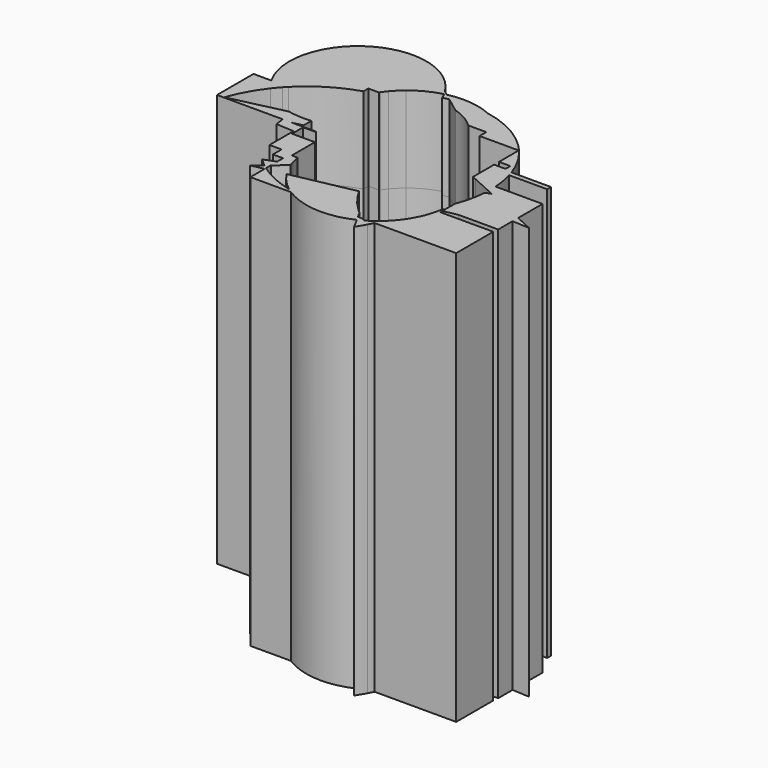
from build123d import *

# Parameters (mm, degrees)
F0_W     = 3.6750007421
F0_H     = 5.775000318
F1_DEPTH = 25
F2_DEPTH = 95


with BuildPart() as f1:
    # F0 (on Top) → F1 (new body)
    with BuildSketch(Plane.XY):
        with BuildLine():
            ThreePointArc((-30.071158285, 31.3468328765), (-29.5287994286, 32.1021124252), (-28.9529769116, 32.832200608))
            ThreePointArc((-28.9529769116, 32.832200608), (-27.5838447335, 34.3329571957), (-26.0738259303, 35.6918672262))
            ThreePointArc((-26.0738259303, 35.6918672262), (-22.3517813672, 38.1084047853), (-18.1992395641, 39.6735456987))
            ThreePointArc((-18.1992395641, 39.6735456987), (-18.5245426558, 40.2636506015), (-18.8696369969, 40.8424042568))
            Line((-18.8696369969, 40.8424042568), (-30.3454089172, 49.5047612757))
            ThreePointArc((-30.3454089172, 49.5047612757), (-42.6251697152, 49.0517697615), (-52.2979562138, 41.4731862579))
            Line((-52.2979562138, 41.4731862579), (-30.071158285, 31.3468328765))
        make_face()
        with BuildLine():
            ThreePointArc((-30.2623343931, 31.0625005513), (-30.1673362911, 31.2050633791), (-30.071158285, 31.3468328765))
            Line((-30.071158285, 31.3468328765), (-52.2979562138, 41.4731862579))
            ThreePointArc((-52.2979562138, 41.4731862579), (-55.6770457664, 31.0321636096), (-53.0078909177, 20.3875023872))
            Line((-53.0078909177, 20.3875023872), (-47.9924982416, 20.3875023872))
            ThreePointArc((-47.9924982416, 20.3875023872), (-41.2137652968, 25.746925913), (-33.3374999464, 29.302074995))
            Line((-33.3374999464, 29.302074995), (-33.3374999464, 31.0625005513))
            Line((-33.3374999464, 31.0625005513), (-32.5901060503, 31.0625005513))
            Line((-32.5901060503, 31.0625005513), (-30.2623343931, 31.0625005513))
        make_face()
        with BuildLine():
            ThreePointArc((-17.5334161659, 39.8337730314), (-17.8669923903, 39.7564207947), (-18.1992395641, 39.6735456987))
            ThreePointArc((-18.1992395641, 39.6735456987), (-17.7864134594, 38.8479792016), (-17.4123121516, 38.0041583406))
            ThreePointArc((-17.4123121516, 38.0041583406), (-16.5358471383, 38.2228526915), (-15.6530520032, 38.4144013485))
            Line((-15.6530520032, 38.4144013485), (-17.5334161659, 39.8337730314))
        make_face()
        with BuildLine():
            ThreePointArc((-18.8696369969, 40.8424042568), (-18.5245426558, 40.2636506015), (-18.1992395641, 39.6735456987))
            ThreePointArc((-18.1992395641, 39.6735456987), (-17.8669923903, 39.7564207947), (-17.5334161659, 39.8337730314))
            Line((-17.5334161659, 39.8337730314), (-18.8696369969, 40.8424042568))
        make_face()
        with BuildLine():
            Line((-30.3454089172, 49.5047612757), (-18.8696369969, 40.8424042568))
            ThreePointArc((-18.8696369969, 40.8424042568), (-23.7978797705, 46.2461869691), (-30.3454089172, 49.5047612757))
        make_face()
        with BuildLine():
            ThreePointArc((-4.5252413586, 38.4924742732), (-10.9203031459, 40.2204751689), (-17.5334161659, 39.8337730314))
            Line((-17.5334161659, 39.8337730314), (-15.6530520032, 38.4144013485))
            ThreePointArc((-15.6530520032, 38.4144013485), (-10.0928904266, 38.9870375577), (-4.5252413586, 38.4924742732))
        make_face()
        with BuildLine():
            ThreePointArc((-50.7512739681, 17.2427478517), (-51.9562194202, 18.7601318601), (-53.0078909177, 20.3875023872))
            Line((-53.0078909177, 20.3875023872), (-58.1875033677, 20.3875023872))
            Line((-58.1875033677, 20.3875023872), (-58.1875033677, 7.1179531098))
            Line((-58.1875033677, 7.1179531098), (-39.0475585355, 7.1179531098))
            ThreePointArc((-39.0475585355, 7.1179531098), (-39.1523218815, 8.9309058901), (-39.1444782721, 10.7468661375))
            ThreePointArc((-39.1444782721, 10.7468661375), (-39.7179407646, 10.853680681), (-40.2880263329, 10.9772566565))
            Line((-40.2880263329, 10.9772566565), (-56.190588675, 7.2792226343))
            ThreePointArc((-56.190588675, 7.2792226343), (-53.8733675413, 12.4806843155), (-50.7512739681, 17.2427478517))
        make_face()
        with BuildLine():
            Line((-47.9924982416, 20.3875023872), (-53.0078909177, 20.3875023872))
            ThreePointArc((-53.0078909177, 20.3875023872), (-51.9562194202, 18.7601318601), (-50.7512739681, 17.2427478517))
            ThreePointArc((-50.7512739681, 17.2427478517), (-49.8561303122, 18.3473701322), (-48.9173030845, 19.4151135394))
            ThreePointArc((-48.9173030845, 19.4151135394), (-48.4595140066, 19.9056955522), (-47.9924982416, 20.3875023872))
        make_face()
        with BuildLine():
            ThreePointArc((-4.5252413586, 38.4924742732), (-10.0928904266, 38.9870375577), (-15.6530520032, 38.4144013485))
            Line((-15.6530520032, 38.4144013485), (-11.28218033, 35.1150981574))
            ThreePointArc((-11.28218033, 35.1150981574), (-7.5263289945, 33.5140484021), (-4.2614105102, 31.0625005513))
            Line((-4.2614105102, 31.0625005513), (0.962500344, 31.0625005513))
            Line((0.962500344, 31.0625005513), (0.962500344, 28.6125019193))
            Line((0.962500344, 28.6125019193), (5.5751292518, 28.6125019193))
            ThreePointArc((5.5751292518, 28.6125019193), (1.3966037445, 34.4435925133), (-4.5252413586, 38.4924742732))
        make_face()
        with BuildLine():
            ThreePointArc((11.1320103007, 30.0894704216), (3.9563452717, 35.507629124), (-4.5252413586, 38.4924742732))
            ThreePointArc((-4.5252413586, 38.4924742732), (1.3966037445, 34.4435925133), (5.5751292518, 28.6125019193))
            Line((5.5751292518, 28.6125019193), (7.9545516891, 28.6125019193))
            ThreePointArc((7.9545516891, 28.6125019193), (9.5203776651, 29.4002589765), (11.1320103007, 30.0894704216))
        make_face()
        with BuildLine():
            ThreePointArc((17.8205888744, 19.1625021398), (15.0813684089, 24.9963589449), (11.1320103007, 30.0894704216))
            ThreePointArc((11.1320103007, 30.0894704216), (9.5203776651, 29.4002589765), (7.9545516891, 28.6125019193))
            Line((7.9545516891, 28.6125019193), (12.3566451147, 28.6125019193))
            Line((12.3566451147, 28.6125019193), (12.3566451147, 21.4375015348))
            Line((12.3566451147, 21.4375015348), (14.4104711624, 21.4375015348))
            Line((14.4104711624, 21.4375015348), (15.6625024974, 21.4375015348))
            Line((15.6625024974, 21.4375015348), (15.6625024974, 19.687499851))
            Line((15.6625024974, 19.687499851), (12.3566451147, 19.687499851))
            Line((12.3566451147, 19.687499851), (12.3566451147, 19.1625021398))
            Line((12.3566451147, 19.1625021398), (17.8205888744, 19.1625021398))
        make_face()
        with BuildLine():
            ThreePointArc((18.259226552, 17.7625007927), (18.0486790968, 18.4652496489), (17.8205888744, 19.1625021398))
            Line((17.8205888744, 19.1625021398), (12.3566451147, 19.1625021398))
            Line((12.3566451147, 19.1625021398), (12.3566451147, 17.7625007927))
            Line((12.3566451147, 17.7625007927), (18.259226552, 17.7625007927))
        make_face()
        with BuildLine():
            Line((29.3124988675, 19.1625021398), (17.8205888744, 19.1625021398))
            ThreePointArc((17.8205888744, 19.1625021398), (18.0486790968, 18.4652496489), (18.259226552, 17.7625007927))
            Line((18.259226552, 17.7625007927), (29.3124988675, 17.7625007927))
            Line((29.3124988675, 17.7625007927), (29.3124988675, 19.1625021398))
        make_face()
        with BuildLine():
            ThreePointArc((-39.1444782721, 10.7468661375), (-39.1523218815, 8.9309058901), (-39.0475585355, 7.1179531098))
            Line((-39.0475585355, 7.1179531098), (-36.4499563066, 7.1179531098))
            Line((-36.4499563066, 7.1179531098), (-33.5125029087, 7.7338707992))
            Line((-33.5125029087, 7.7338707992), (-33.5125029087, 10.592149025))
            ThreePointArc((-33.5125029087, 10.592149025), (-36.3339935224, 10.4691911668), (-39.1444782721, 10.7468661375))
        make_face()
        with BuildLine():
            Line((-36.4499563066, 7.1179531098), (-39.0475585355, 7.1179531098))
            ThreePointArc((-39.0475585355, 7.1179531098), (-39.0225733364, 6.8509988572), (-38.9951442785, 6.5842846281))
            Line((-38.9951442785, 6.5842846282), (-36.4499563066, 7.1179531098))
        make_face()
        with BuildLine():
            ThreePointArc((18.6227992253, 16.3610761814), (18.4496777039, 17.0640364068), (18.259226552, 17.7625007927))
            Line((18.259226552, 17.7625007927), (12.3566451147, 17.7625007927))
            Line((12.3566451147, 17.7625007927), (12.3566451147, 14.3127087279))
            Line((12.3566451147, 14.3127087279), (18.6227992253, 16.3610761814))
        make_face()
        with BuildLine():
            Line((-33.5125029087, 7.1179531098), (-36.4499563066, 7.1179531098))
            Line((-36.4499563066, 7.1179531098), (-38.9951442785, 6.5842846282))
            ThreePointArc((-38.9951442785, 6.5842846281), (-38.8545710122, 5.4758170049), (-38.6718010712, 4.3735210085))
            Line((-38.6718010712, 4.3735210085), (-33.5125029087, 4.1006240002))
            Line((-33.5125029087, 4.1006240002), (-33.5125029087, 7.1179531098))
        make_face()
        with BuildLine():
            ThreePointArc((19.3354057682, 11.4625003189), (19.0828253542, 13.926877041), (18.6227992253, 16.3610761814))
            Line((18.6227992253, 16.3610761814), (12.3566451147, 14.3127087279))
            Line((12.3566451147, 14.3127087279), (12.3566451147, 12.0170611391))
            Line((12.3566451147, 12.0170611391), (13.5738761183, 11.4625003189))
            Line((13.5738761183, 11.4625003189), (19.3354057682, 11.4625003189))
        make_face()
        with BuildLine():
            Line((-29.4110169453, 7.1179531098), (-33.5125029087, 7.1179531098))
            Line((-33.5125029087, 7.1179531098), (-33.5125029087, 4.1006240002))
            Line((-33.5125029087, 4.1006240002), (-32.9875014722, 4.0728544631))
            Line((-32.9875014722, 4.0728544631), (-32.9875014722, 6.9125001319))
            Line((-32.9875014722, 6.9125001319), (-29.2512270521, 6.9125001319))
            ThreePointArc((-29.2512270521, 6.9125001319), (-29.3314458256, 7.0149747663), (-29.4110169453, 7.1179531098))
        make_face()
        with BuildLine():
            Line((29.744037072, 11.4625003189), (19.3354057682, 11.4625003189))
            ThreePointArc((19.3354057682, 11.4625003189), (19.3846120558, 10.1416586618), (19.374148289, 8.8199421827))
            Line((19.374148289, 8.8199421827), (20.894426558, 8.1273154247))
            Line((20.894426558, 8.1273154247), (29.744037072, 11.4625003189))
        make_face()
        with BuildLine():
            ThreePointArc((19.374148289, 8.8199421827), (19.3846120558, 10.1416586618), (19.3354057682, 11.4625003189))
            Line((19.3354057682, 11.4625003189), (13.5738761183, 11.4625003189))
            Line((13.5738761183, 11.4625003189), (19.374148289, 8.8199421827))
        make_face()
        Polygon((-32.9875014722, 4.0728544631), (-33.5125029087, 4.1006240002), (-33.5125029087, -4.6375002712), (-30.0125014037, -4.6375002712), (-30.0125014037, 1.1375000468), (-26.3375006616, 1.1375000468), (-26.3375006616, 2.8874999844), (-32.9875014722, 2.8874999844), align=None)
        with BuildLine():
            Line((32.9875051975, 11.4625003189), (29.744037072, 11.4625003189))
            Line((29.744037072, 11.4625003189), (20.894426558, 8.1273154247))
            Line((20.894426558, 8.1273154247), (19.3061974538, 7.528753747))
            ThreePointArc((19.3061974538, 7.528753747), (19.3048975855, 7.5114452721), (19.3035874553, 7.4941375709))
            ThreePointArc((19.3035874553, 7.4941375709), (19.0530268322, 5.2981344686), (18.637502566, 3.1272936555))
            Line((18.637502566, 3.1272936555), (18.637502566, 2.8874999844))
            Line((18.637502566, 2.8874999844), (18.5810807252, 2.8874999844))
            ThreePointArc((18.5810807252, 2.8874999844), (18.387245814, 2.1243867951), (18.1729592459, 1.3667622317))
            Line((18.1729592459, 1.3667622317), (32.9875051975, 0.5831585044))
            Line((32.9875051975, 0.5831585044), (32.9875051975, 2.6178044207))
            Line((32.9875051975, 2.6178044207), (32.9875051975, 11.4625003189))
        make_face()
        with BuildLine():
            Line((-26.3375006616, -4.6375002712), (-30.0125014037, -4.6375002712))
            Line((-30.0125014037, -4.6375002712), (-30.0125014037, -7.7875005081))
            Line((-30.0125014037, -7.7875005081), (-27.0375013351, -7.7875005081))
            Line((-27.0375013351, -7.7875005081), (-27.0375013351, -6.212499924))
            Line((-27.0375013351, -6.212499924), (-24.4811902103, -6.212499924))
            ThreePointArc((-24.4811902103, -6.212499924), (-24.5495457822, -5.863055213), (-24.6119578033, -5.5125001818))
            Line((-24.6119578033, -5.5125001818), (-26.3375006616, -5.5125001818))
            Line((-26.3375006616, -5.5125001818), (-26.3375006616, -4.6375002712))
        make_face()
        with Locations((-28.1750010327, -1.7500001122)):
            Rectangle(F0_W, F0_H)
        Polygon((38.0400421285, 0.3159085471), (32.9875051975, 2.6178044207), (32.9875051975, 0.5831585044), align=None)
        with BuildLine():
            Line((32.9875051975, -4.6375002712), (32.9875051975, 0.5831585044))
            Line((32.9875051975, 0.5831585044), (18.1729592459, 1.3667622317))
            ThreePointArc((18.1729592459, 1.3667622317), (17.8150868285, 0.2463818045), (17.412500456, -0.8587196304))
            Line((17.412500456, -0.8587196304), (17.412500456, -2.4570739019))
            Line((17.412500456, -2.4570739019), (17.412500456, -4.6375002712))
            Line((17.412500456, -4.6375002712), (21.476102247, -4.6375002712))
            Line((21.476102247, -4.6375002712), (32.9875051975, -4.6375002712))
        make_face()
        with BuildLine():
            Line((-27.0375013351, -6.212499924), (-27.0375013351, -7.7875005081))
            Line((-27.0375013351, -7.7875005081), (-24.0951927284, -7.7875005081))
            ThreePointArc((-24.0951927284, -7.7875005081), (-24.3034225176, -7.003733006), (-24.4811902103, -6.212499924))
            Line((-24.4811902103, -6.212499924), (-27.0375013351, -6.212499924))
        make_face()
        with BuildLine():
            Line((-24.0951927284, -7.7875005081), (-27.0375013351, -7.7875005081))
            Line((-27.0375013351, -7.7875005081), (-27.0375013351, -9.9369645349))
            Line((-27.0375013351, -9.9369645349), (-23.8048272843, -8.7186549104))
            ThreePointArc((-23.8048272843, -8.7186549104), (-23.9554249395, -8.2547662686), (-24.0951927284, -7.7875005081))
        make_face()
        with BuildLine():
            Line((-27.0375013351, -12.235680294), (-27.0375013351, -9.9369645349))
            Line((-27.0375013351, -9.9369645349), (-30.3783252928, -11.196033008))
            ThreePointArc((-30.3783252928, -11.196033008), (-29.2977401093, -12.2028656643), (-28.167751159, -13.1539184016))
            Line((-28.167751159, -13.1539184016), (-27.0375013351, -12.235680294))
        make_face()
        with BuildLine():
            Line((-23.8048272843, -8.7186549104), (-27.0375013351, -9.9369645349))
            Line((-27.0375013351, -9.9369645349), (-27.0375013351, -12.235680294))
            Line((-27.0375013351, -12.235680294), (-23.558253886, -9.4090684014))
            ThreePointArc((-23.558253886, -9.4090684014), (-23.6845581689, -9.0649393519), (-23.8048272843, -8.7186549104))
        make_face()
        Polygon((17.412500456, -5.4623508147), (21.476102247, -4.6375002712), (17.412500456, -4.6375002712), align=None)
        with BuildLine():
            Line((-27.0375013351, -14.0133957028), (-27.0375013351, -12.235680294))
            Line((-27.0375013351, -12.235680294), (-28.167751159, -13.1539184016))
            ThreePointArc((-28.167751159, -13.1539184016), (-27.6078378426, -13.5905105257), (-27.0375013351, -14.0133957028))
        make_face()
        with BuildLine():
            Line((17.412500456, -6.212499924), (17.412500456, -5.4623508147))
            Line((17.412500456, -5.4623508147), (16.7215001218, -5.6026135744))
            ThreePointArc((16.7215001218, -5.6026135744), (16.6661018788, -5.9079834335), (16.6061900836, -6.212499924))
            Line((16.6061900836, -6.212499924), (17.412500456, -6.212499924))
        make_face()
        with BuildLine():
            Line((16.7215001218, -5.6026135744), (17.412500456, -5.4623508147))
            Line((17.412500456, -5.4623508147), (17.412500456, -4.6375002712))
            Line((17.412500456, -4.6375002712), (16.8661673432, -4.6375002712))
            ThreePointArc((16.8661673432, -4.6375002712), (16.7994491307, -5.120898652), (16.7215001218, -5.6026135744))
        make_face()
        with BuildLine():
            ThreePointArc((-27.0375013351, -14.0133957028), (-27.6078378426, -13.5905105257), (-28.167751159, -13.1539184016))
            Line((-28.167751159, -13.1539184016), (-30.7283893035, -15.2342332793))
            Line((-30.7283893035, -15.2342332793), (-27.0375013351, -14.4850380817))
            Line((-27.0375013351, -14.4850380817), (-27.0375013351, -14.0133957028))
        make_face()
        with BuildLine():
            ThreePointArc((-26.5188940777, -14.3797685449), (-26.7791910425, -14.1979882087), (-27.0375013351, -14.0133957028))
            Line((-27.0375013351, -14.0133957028), (-27.0375013351, -14.4850380817))
            Line((-27.0375013351, -14.4850380817), (-26.5188940777, -14.3797685449))
        make_face()
        with BuildLine():
            Line((32.8125022352, -6.212499924), (17.412500456, -6.212499924))
            Line((17.412500456, -6.212499924), (17.412500456, -7.7875005081))
            Line((17.412500456, -7.7875005081), (16.2201926017, -7.7875005081))
            ThreePointArc((16.2201926017, -7.7875005081), (15.692440438, -9.3846530504), (15.0383670545, -10.9343648297))
            ThreePointArc((15.0383670545, -10.9343648297), (13.0974533614, -14.2392562018), (10.587415934, -17.1356617428))
            ThreePointArc((10.587415934, -17.1356617428), (10.2651603027, -17.4386999338), (9.9365837831, -17.7348727006))
            ThreePointArc((9.9365837831, -17.7348727006), (9.5212144114, -18.7176761693), (9.0763814095, -19.687499851))
            Line((9.0763814095, -19.687499851), (32.8125022352, -19.687499851))
            Line((32.8125022352, -19.687499851), (32.8125022352, -6.212499924))
        make_face()
        with BuildLine():
            Line((17.412500456, -7.7875005081), (17.412500456, -6.212499924))
            Line((17.412500456, -6.212499924), (16.6061900836, -6.212499924))
            ThreePointArc((16.6061900836, -6.212499924), (16.4284223909, -7.003733006), (16.2201926017, -7.7875005081))
            Line((16.2201926017, -7.7875005081), (17.412500456, -7.7875005081))
        make_face()
        with BuildLine():
            Line((-3.5711940701, -9.7217277728), (-21.5616430902, -13.3735205458))
            ThreePointArc((-21.5616430902, -13.3735205458), (-19.2689183908, -16.3174228511), (-16.4907041516, -18.8083409492))
            ThreePointArc((-16.4907041516, -18.8083409492), (-15.8630747891, -19.2596410269), (-15.2192369186, -19.687499851))
            Line((-15.2192369186, -19.687499851), (4.2463764687, -19.687499851))
            Line((4.2463764687, -19.687499851), (3.2655620441, -17.896057916))
            ThreePointArc((3.2655620441, -17.896057916), (2.7251790228, -17.4309306899), (2.1966969068, -16.9523245897))
            ThreePointArc((2.1966969068, -16.9523245897), (-0.9121907594, -13.5523430228), (-3.4276015579, -9.6925806349))
            Line((-3.4276015579, -9.6925806349), (-3.5711940701, -9.7217277728))
        make_face()
        with BuildLine():
            Line((-26.5188940777, -14.3797685449), (-27.0375013351, -14.4850380817))
            Line((-27.0375013351, -14.4850380817), (-27.0375013351, -19.687499851))
            Line((-27.0375013351, -19.687499851), (-15.2192369186, -19.687499851))
            ThreePointArc((-15.2192369186, -19.687499851), (-15.8630747891, -19.2596410269), (-16.4907041516, -18.8083409492))
            ThreePointArc((-16.4907041516, -18.8083409492), (-21.7139407999, -17.0676413455), (-26.5188940777, -14.3797685449))
        make_face()
        with BuildLine():
            Line((4.2463764687, -19.687499851), (-15.2192369186, -19.687499851))
            ThreePointArc((-15.2192369186, -19.687499851), (-5.2961327809, -22.9370626913), (4.9638696899, -20.9979897992))
            Line((4.9638696899, -20.9979897992), (4.2463764687, -19.687499851))
        make_face()
        with BuildLine():
            ThreePointArc((8.2774538515, -21.2600026672), (8.6867241752, -20.4787335833), (9.0763814095, -19.687499851))
            Line((9.0763814095, -19.687499851), (7.3442367919, -19.687499851))
            ThreePointArc((7.3442367919, -19.687499851), (6.9076020151, -19.9587243147), (6.4644502437, -20.2191646065))
            ThreePointArc((6.4644502437, -20.2191646065), (7.3613283873, -20.7563467929), (8.2774538515, -21.2600026672))
        make_face()
        with BuildLine():
            Line((7.3442367919, -19.687499851), (9.0763814095, -19.687499851))
            ThreePointArc((9.0763814095, -19.687499851), (9.5212144114, -18.7176761693), (9.9365837831, -17.7348727006))
            ThreePointArc((9.9365837831, -17.7348727006), (8.6782447419, -18.7614160567), (7.3442367919, -19.687499851))
        make_face()
        with BuildLine():
            Line((5.6447812914, -19.687499851), (4.2463764687, -19.687499851))
            Line((4.2463764687, -19.687499851), (4.9638696899, -20.9979897992))
            ThreePointArc((4.9638696899, -20.9979897992), (5.7220125283, -20.623706915), (6.4644502437, -20.2191646065))
            ThreePointArc((6.4644502437, -20.2191646065), (6.0523190078, -19.9568731493), (5.6447812914, -19.687499851))
        make_face()
        with BuildLine():
            ThreePointArc((6.4644502437, -20.2191646065), (5.7220125283, -20.623706915), (4.9638696899, -20.9979897992))
            Line((4.9638696899, -20.9979897992), (6.6195663596, -24.0220934127))
            ThreePointArc((6.6195663596, -24.0220934127), (7.4799816627, -22.6599381872), (8.2774538515, -21.2600026672))
            ThreePointArc((8.2774538515, -21.2600026672), (7.3613283873, -20.7563467929), (6.4644502437, -20.2191646065))
        make_face()
    extrude(amount=F1_DEPTH)

    # F2 (add): a face of the model
    f2_faces = [f1.faces().sort_by_distance(p)[0] for p in [
        (-5.2173664012, -21.7239665973, 0),
    ]]
    extrude(f2_faces, amount=F2_DEPTH)


solid = f1.part
